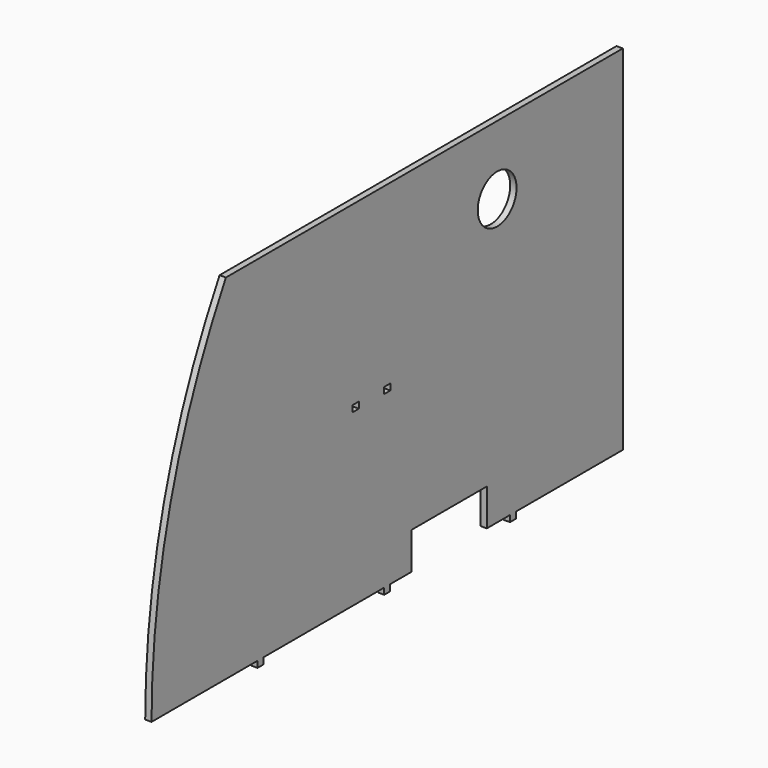
from build123d import *

# Parameters (mm, degrees)
F0_R     = 15.6845
F1_DEPTH = 4.0894
F2_W     = 5.08
F2_H     = 4.0894
F3_DEPTH = 25.4


with BuildPart() as f1:
    # F0 (on Right) → F1 (new body)
    with BuildSketch(Plane.YZ):
        with BuildLine():
            Line((104.3824, -228.6), (190.5, -228.6))
            Line((190.5, -228.6), (190.5, 0))
            Line((190.5, 0), (-130.401722, 0))
            ThreePointArc((-130.401722, 0), (-175.224427, -110.416072), (-190.5, -228.6))
            Line((-190.5, -228.6), (-104.821593, -228.6))
            Line((-104.821593, -228.6), (-99.995593, -228.6))
            Line((-99.995593, -228.6), (-2.54, -228.6))
            Line((-2.54, -228.6), (-2.413, -228.6))
            Line((-2.413, -228.6), (2.413, -228.6))
            Line((2.413, -228.6), (2.54, -228.6))
            Line((2.54, -228.6), (19.796586, -228.6))
            Line((19.796586, -228.6), (19.796586, -204.705998))
            Line((19.796586, -204.705998), (80.546886, -204.705998))
            Line((80.546886, -204.705998), (80.546886, -228.6))
            Line((80.546886, -228.6), (99.06, -228.6))
            Line((99.06, -228.6), (99.3082, -228.6))
            Line((99.3082, -228.6), (104.1342, -228.6))
            Line((104.1342, -228.6), (104.3824, -228.6))
        make_face()
        with Locations((88.9, -44.45)):
            Circle(F0_R, mode=Mode.SUBTRACT)
        Polygon((104.1342, -232.6894), (104.1342, -228.6), (99.3082, -228.6), (99.3082, -232.6894), (101.7212, -232.6894), align=None)
        Polygon((-99.995593, -228.6), (-104.821593, -228.6), (-104.821593, -232.6894), (-102.408593, -232.6894), (-99.995593, -232.6894), align=None)
        Polygon((2.413, -228.6), (-2.413, -228.6), (-2.413, -232.6894), (0, -232.6894), (2.413, -232.6894), align=None)
    extrude(amount=F1_DEPTH)

    # F2 (on face) → F3 (cut)
    with BuildSketch(Plane.YZ.offset(4.0894)):
        with Locations((0, -116.3447)):
            Rectangle(F2_W, F2_H)
        with Locations((-25.4, -116.3447)):
            Rectangle(F2_W, F2_H)
    extrude(amount=-F3_DEPTH, mode=Mode.SUBTRACT)


solid = f1.part
